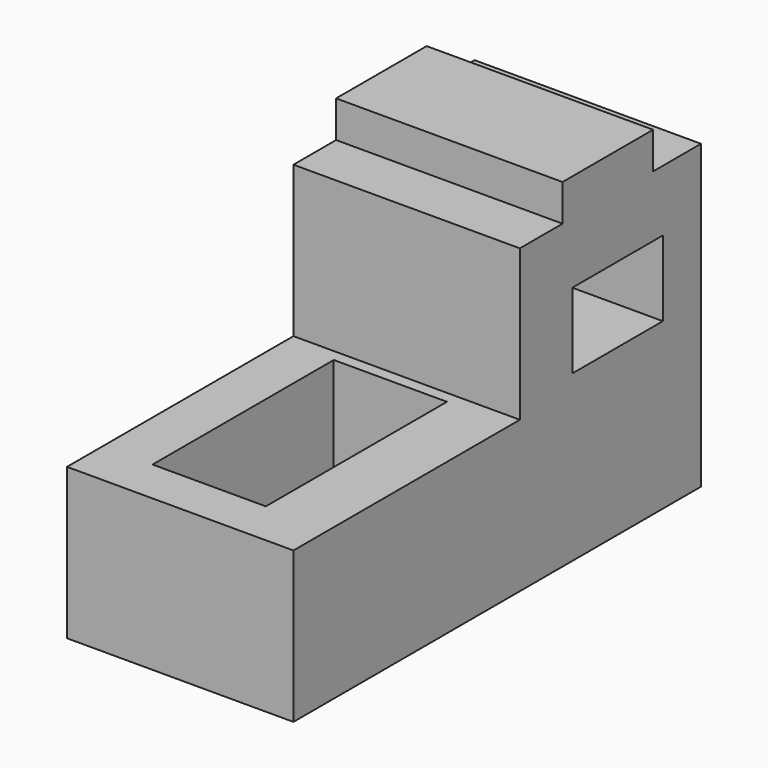
from build123d import *

# Parameters (mm, degrees)
F0_W      = 1219.2
F0_H      = 812.8
F1_DEPTH  = 2743.2
F2_W      = 1219.2
F2_H      = 812.8
F3_DEPTH  = 1219.2
F5_W      = 609.6
F5_H      = 197.6317144394
F6_DEPTH  = 1219.2
F7_W      = 609.6
F7_H      = 406.4
F8_DEPTH  = 1219.2
F9_W      = 609.6
F9_H      = 1219.2
F10_DEPTH = 609.6


with BuildPart() as f1:
    # F0 (on Front) → F1 (new body)
    with BuildSketch(Plane.XZ):
        with Locations((609.6, 406.4)):
            Rectangle(F0_W, F0_H)
    extrude(amount=F1_DEPTH)

    # F2 (on face) → F3 (join)
    with BuildSketch(Plane.YZ.offset(1219.2)):
        with Locations((-609.6, 1219.2)):
            Rectangle(F2_W, F2_H)
    extrude(amount=-F3_DEPTH)

    # F5 (on face) → F6 (join)
    with BuildSketch(Plane.YZ.offset(1219.2)):
        with Locations((-627.2147037506, 1724.4158572197)):
            Rectangle(F5_W, F5_H)
    extrude(amount=-F6_DEPTH)

    # F7 (on face) → F8 (cut)
    with BuildSketch(Plane.YZ.offset(1219.2)):
        with Locations((-561.3680146217, 1092.2)):
            Rectangle(F7_W, F7_H)
    extrude(amount=-F8_DEPTH, mode=Mode.SUBTRACT)

    # F9 (on face) → F10 (cut)
    with BuildSketch(Plane.XY.offset(812.8)):
        with Locations((572.7532841682, -1892.4670890808)):
            Rectangle(F9_W, F9_H)
    extrude(amount=-F10_DEPTH, mode=Mode.SUBTRACT)


solid = f1.part
